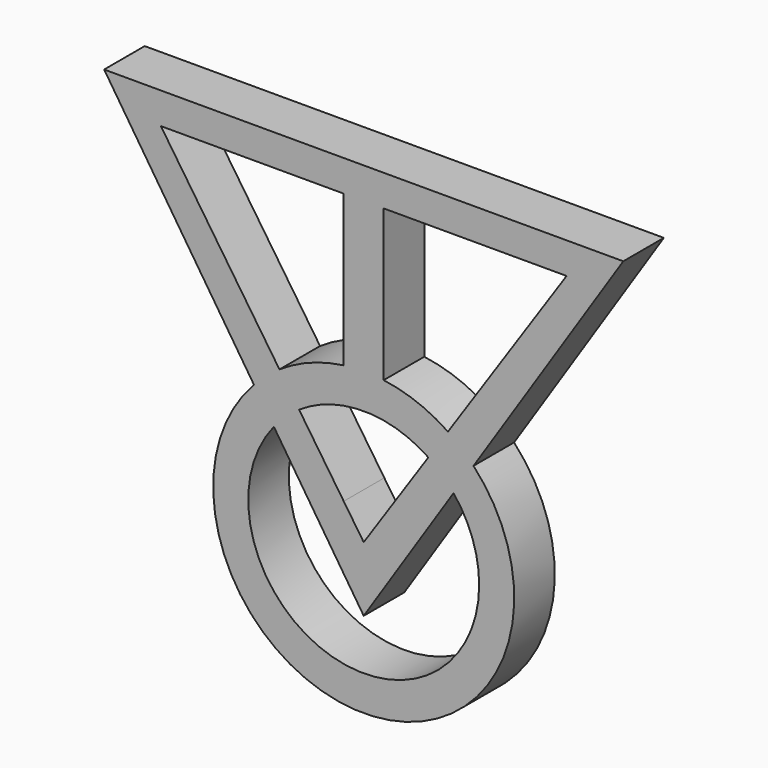
from build123d import *

# Parameters (mm, degrees)
F1_DEPTH = 3.175


with BuildPart() as f1:
    # F0 (on Front) → F1 (new body)
    with BuildSketch(Plane.XZ):
        Polygon((-1.2503195478, 0), (0, 0), (0, 1.9634975899), (-16.2488400529, 1.9634975899), (-12.7, 0), align=None)
        Polygon((0, 1.9634975899), (0, 0), (1.2503195478, 0), (12.7, 0), (16.2488400529, 1.9634975899), align=None)
        with BuildLine():
            Line((16.2488400529, 1.9634975899), (12.7, 0))
            Line((12.7, 0), (5.273375106, -10.9961956262))
            ThreePointArc((5.273375106, -10.9961956262), (6.1114552938, -11.6331804071), (6.8732481888, -12.3596785818))
            Line((6.8732481888, -12.3596785818), (16.2488400529, 1.9634975899))
        make_face()
        with BuildLine():
            Line((-5.273375106, -10.9961956262), (-12.7, 0))
            Line((-12.7, 0), (-16.2488400529, 1.9634975899))
            Line((-16.2488400529, 1.9634975899), (-6.8732481888, -12.3596785818))
            ThreePointArc((-6.8732481888, -12.3596785818), (-6.1114552938, -11.6331804071), (-5.273375106, -10.9961956262))
        make_face()
        with BuildLine():
            Line((1.2503195478, 0), (0, 0))
            Line((0, 0), (-1.2503195478, 0))
            Line((-1.2503195478, 0), (-1.2503195478, -9.4655629921))
            ThreePointArc((-1.2503195478, -9.4655629921), (0, -9.3822341022), (1.2503195478, -9.4655629921))
            Line((1.2503195478, -9.4655629921), (1.2503195478, 0))
        make_face()
        with BuildLine():
            Line((1.2503195478, -11.6856056581), (1.2503195478, -9.4655629921))
            ThreePointArc((1.2503195478, -9.4655629921), (0, -9.3822341022), (-1.2503195478, -9.4655629921))
            Line((-1.2503195478, -9.4655629921), (-1.2503195478, -11.6856056581))
            ThreePointArc((-1.2503195478, -11.6856056581), (0, -11.5766356799), (1.2503195478, -11.6856056581))
        make_face()
        with BuildLine():
            Line((-1.2503195478, -11.6856056581), (-1.2503195478, -9.4655629921))
            ThreePointArc((-1.2503195478, -9.4655629921), (-3.3504263981, -9.9980615076), (-5.273375106, -10.9961956262))
            Line((-5.273375106, -10.9961956262), (-4.0451906764, -12.8147008617))
            ThreePointArc((-4.0451906764, -12.8147008617), (-2.7072718978, -12.1028302128), (-1.2503195478, -11.6856056581))
        make_face()
        with BuildLine():
            Line((-4.0451906764, -12.8147008617), (-5.273375106, -10.9961956262))
            ThreePointArc((-5.273375106, -10.9961956262), (-6.1114552938, -11.6331804071), (-6.8732481888, -12.3596785818))
            Line((-6.8732481888, -12.3596785818), (-5.6253009067, -14.2661788895))
            ThreePointArc((-5.6253009067, -14.2661788895), (-4.8894068128, -13.4814790218), (-4.0451906764, -12.8147008617))
        make_face()
        with BuildLine():
            Line((-5.6253009067, -14.2661788895), (-6.8732481888, -12.3596785818))
            ThreePointArc((-6.8732481888, -12.3596785818), (-3.4651004367, -27.5658350731), (9.4219584409, -18.804192543))
            ThreePointArc((9.4219584409, -18.804192543), (8.7616425301, -15.3390921063), (6.8732481888, -12.3596785818))
            Line((6.8732481888, -12.3596785818), (5.6253009067, -14.2661788895))
            ThreePointArc((5.6253009067, -14.2661788895), (6.8152314849, -16.3979095137), (7.2275568631, -18.804192543))
            ThreePointArc((7.2275568631, -18.804192543), (-2.4062830293, -25.6194240279), (-5.6253009067, -14.2661788895))
        make_face()
        with BuildLine():
            Line((-1.2503195478, -16.9529130534), (-4.0451906764, -12.8147008617))
            ThreePointArc((-4.0451906764, -12.8147008617), (-4.8894068128, -13.4814790218), (-5.6253009067, -14.2661788895))
            Line((-5.6253009067, -14.2661788895), (0, -22.8600017726))
            Line((0, -22.8600017726), (0, -18.804192543))
            Line((0, -18.804192543), (-1.2503195478, -16.9529130534))
        make_face()
        with BuildLine():
            ThreePointArc((5.6253009067, -14.2661788895), (4.8894068128, -13.4814790218), (4.0451906764, -12.8147008617))
            Line((4.0451906764, -12.8147008617), (1.2503195478, -16.9529130534))
            Line((1.2503195478, -16.9529130534), (0, -18.804192543))
            Line((0, -18.804192543), (0, -22.8600017726))
            Line((0, -22.8600017726), (5.6253009067, -14.2661788895))
        make_face()
        with BuildLine():
            ThreePointArc((5.273375106, -10.9961956262), (3.3504263981, -9.9980615076), (1.2503195478, -9.4655629921))
            Line((1.2503195478, -9.4655629921), (1.2503195478, -11.6856056581))
            ThreePointArc((1.2503195478, -11.6856056581), (2.7072718978, -12.1028302128), (4.0451906764, -12.8147008617))
            Line((4.0451906764, -12.8147008617), (5.273375106, -10.9961956262))
        make_face()
        with BuildLine():
            ThreePointArc((6.8732481888, -12.3596785818), (6.1114552938, -11.6331804071), (5.273375106, -10.9961956262))
            Line((5.273375106, -10.9961956262), (4.0451906764, -12.8147008617))
            ThreePointArc((4.0451906764, -12.8147008617), (4.8894068128, -13.4814790218), (5.6253009067, -14.2661788895))
            Line((5.6253009067, -14.2661788895), (6.8732481888, -12.3596785818))
        make_face()
    extrude(amount=F1_DEPTH)


solid = f1.part
